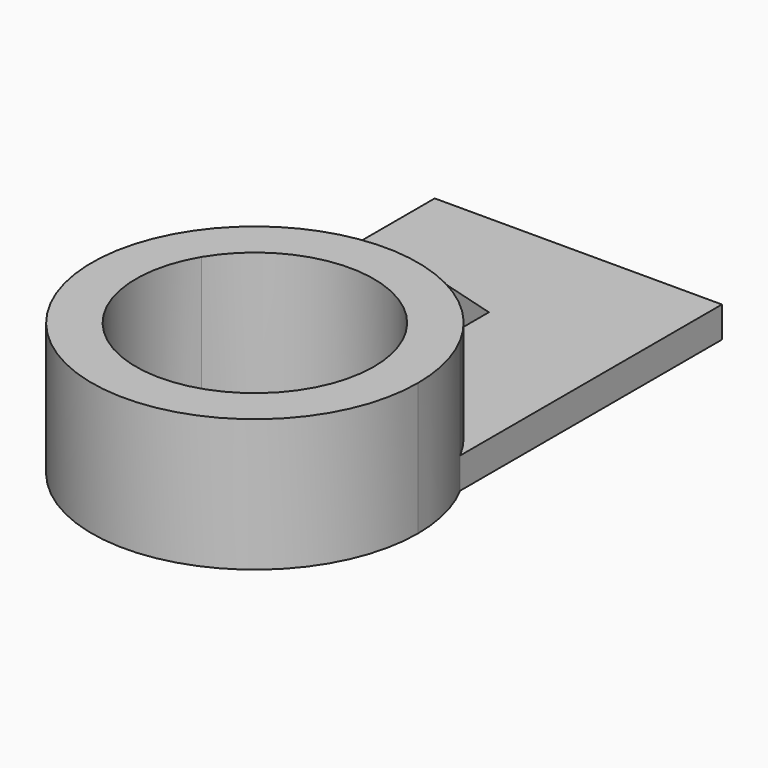
from build123d import *

# Parameters (mm, degrees)
F1_DEPTH  = 39.116
F2_DEPTH  = 9.144
F2_FACE_W = 84.796926
F2_FACE_H = 9.144
F3_DEPTH  = 21.59
F4_W      = 5.286065
F4_H      = 34.716484
F5_DEPTH  = 29.972
F7_DEPTH  = 49.784


with BuildPart() as f1:
    # F0 (on Top) → F1 (new body)
    with BuildSketch(Plane.XY):
        with BuildLine():
            ThreePointArc((29.291412, -4.666115), (-13.107051, 20.673092), (-55.505514, -4.666115))
            Line((-55.505514, -4.666115), (-55.505514, -9.459872))
            Line((-55.505514, -9.459872), (-43.261834, -9.459872))
            ThreePointArc((-43.261834, -9.459872), (-13.107051, 7.654781), (17.047732, -9.459872))
            Line((17.047732, -9.459872), (29.291412, -9.459872))
            Line((29.291412, -9.459872), (29.291412, -4.666115))
        make_face()
        with BuildLine():
            Line((-55.505514, -9.459872), (-55.505514, -4.666115))
            ThreePointArc((-55.505514, -4.666115), (-24.863895, -74.151052), (35.033861, -27.467821))
            ThreePointArc((35.033861, -27.467821), (33.57618, -15.710977), (29.291412, -4.666115))
            Line((29.291412, -4.666115), (29.291412, -9.459872))
            Line((29.291412, -9.459872), (17.047732, -9.459872))
            ThreePointArc((17.047732, -9.459872), (20.750825, -18.127512), (22.015551, -27.467821))
            ThreePointArc((22.015551, -27.467821), (-22.44736, -61.325697), (-43.261834, -9.459872))
            Line((-43.261834, -9.459872), (-55.505514, -9.459872))
        make_face()
    extrude(amount=F1_DEPTH)

    # F0 (on Top) → F2 (join)
    with BuildSketch(Plane.XY):
        with BuildLine():
            Line((29.291412, 70.322178), (-55.505514, 70.322178))
            Line((-55.505514, 70.322178), (-55.505514, -4.666115))
            ThreePointArc((-55.505514, -4.666115), (-13.107051, 20.673092), (29.291412, -4.666115))
            Line((29.291412, -4.666115), (29.291412, 70.322178))
        make_face()
    extrude(amount=F2_DEPTH)

    # F2_face (on face) → F3 (join)
    with BuildSketch(Plane(origin=(-13.107051, 70.322178, 4.572), x_dir=(-1, 0, 0), z_dir=(0, 1, 0))):
        Rectangle(F2_FACE_W, F2_FACE_H)
    extrude(amount=F3_DEPTH)

    # F4 (on face) → F5 (join)
    with BuildSketch(Plane.XY.offset(9.144)):
        with Locations((-12.872688, 37.945265)):
            Rectangle(F4_W, F4_H)
    extrude(amount=F5_DEPTH)

    # F6 (on face) → F7 (cut)
    with BuildSketch(Plane(origin=(-15.515721, 0, 0), x_dir=(0, -1, 0), z_dir=(-1, 0, 0))):
        Polygon((-55.303507, 9.144), (-20.612797, 39.116), (-55.303507, 39.116), align=None)
    extrude(amount=-F7_DEPTH, mode=Mode.SUBTRACT)


solid = f1.part
